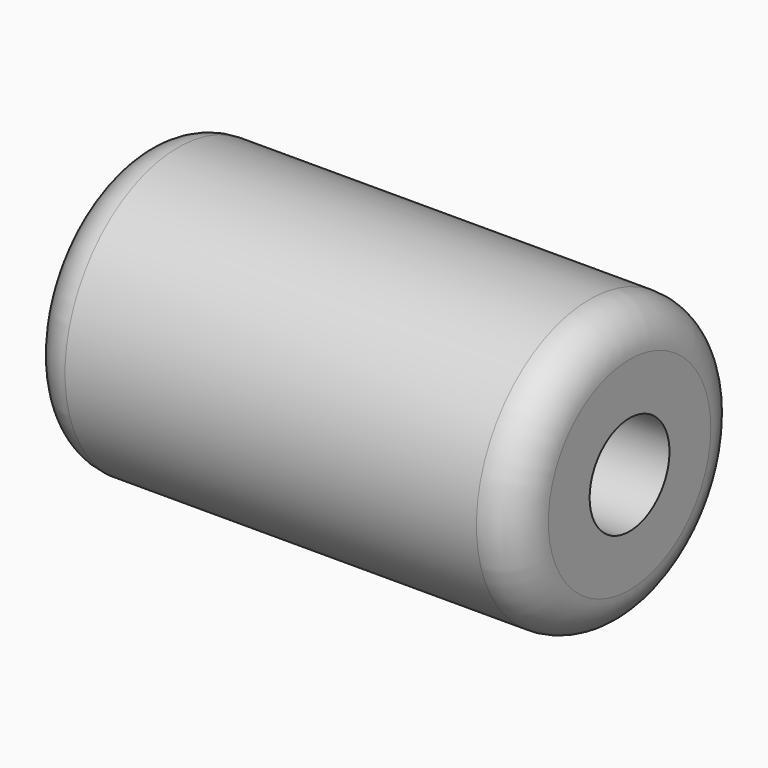
from build123d import *

# Parameters (mm, degrees)
F0_R     = 36
F1_DEPTH = 125
F2_R     = 12.7
F3_DEPTH = 254
F4_R     = 10.16


with BuildPart() as f1:
    # F0 (on Right) → F1 (new body)
    with BuildSketch(Plane.YZ):
        with Locations((-19.977277, 22.49966)):
            Circle(F0_R)
    extrude(amount=F1_DEPTH)

    # F2 (on face) → F3 (cut)
    with BuildSketch(Plane(origin=(0, 0, 0), x_dir=(0, -1, 0), z_dir=(-1, 0, 0))):
        with Locations((19.977277, 22.49966)):
            Circle(F2_R)
    extrude(amount=-F3_DEPTH, mode=Mode.SUBTRACT)

    # F4
    f4_edges = [f1.edges().sort_by_distance(p)[0] for p in [
        (0, -55.977277, 22.49966),
        (125, -55.977277, 22.49966),
    ]]
    fillet(f4_edges, radius=F4_R)


solid = f1.part
